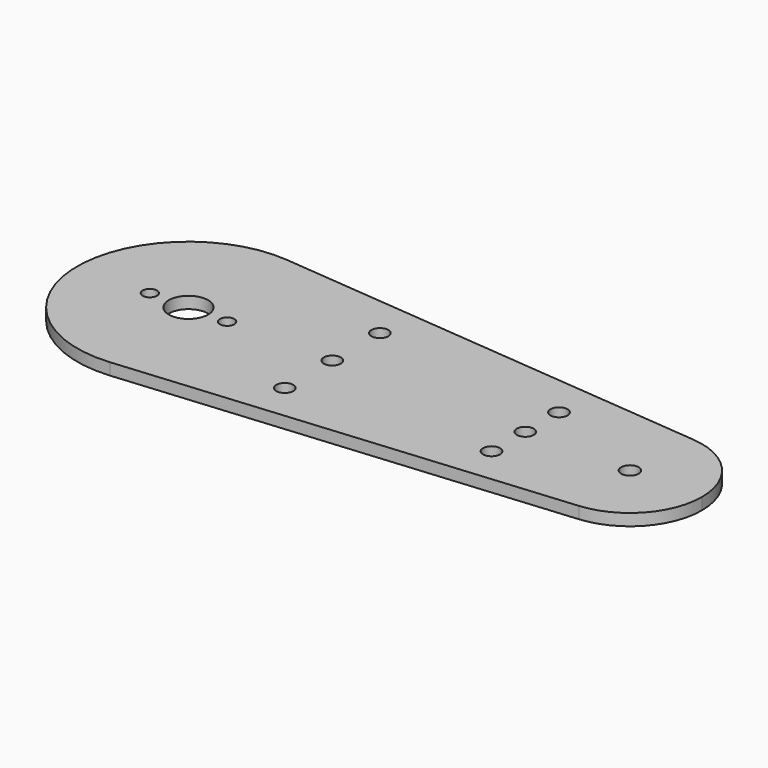
from build123d import *

# Parameters (mm, degrees)
F0_R     = 1.397
F0_R_2   = 3.81
F0_R_3   = 1.651
F0_R_4   = 1.7145
F1_DEPTH = 2.286


with BuildPart() as f1:
    # F0 (on Top) → F1 (new body)
    with BuildSketch(Plane.XY):
        with BuildLine():
            ThreePointArc((1.919111, -21.504537), (15.930501, -14.572139), (21.59, 0))
            ThreePointArc((21.59, 0), (15.930501, 14.572139), (1.919111, 21.504537))
            ThreePointArc((1.919111, 21.504537), (-21.59, 0), (1.919111, -21.504537))
        make_face()
        with Locations((-7.493, 0)):
            Circle(F0_R, mode=Mode.SUBTRACT)
        Circle(F0_R_2, mode=Mode.SUBTRACT)
        with Locations((7.493, 0)):
            Circle(F0_R, mode=Mode.SUBTRACT)
        with BuildLine():
            ThreePointArc((1.919111, 21.504537), (15.930501, 14.572139), (21.59, 0))
            ThreePointArc((21.59, 0), (15.930501, -14.572139), (1.919111, -21.504537))
            Line((1.919111, -21.504537), (86.966778, -13.9147))
            ThreePointArc((86.966778, -13.9147), (71.755, 0), (86.966778, 13.9147))
            Line((86.966778, 13.9147), (1.919111, 21.504537))
        make_face()
        with Locations((27.94, -11.532094)):
            Circle(F0_R_3, mode=Mode.SUBTRACT)
        with Locations((65.405, -8.188637)):
            Circle(F0_R_3, mode=Mode.SUBTRACT)
        with Locations((27.94, 0)):
            Circle(F0_R_3, mode=Mode.SUBTRACT)
        with Locations((27.94, 11.532094)):
            Circle(F0_R_3, mode=Mode.SUBTRACT)
        with Locations((65.405, 0)):
            Circle(F0_R_3, mode=Mode.SUBTRACT)
        with Locations((65.405, 8.188637)):
            Circle(F0_R_3, mode=Mode.SUBTRACT)
        with BuildLine():
            ThreePointArc((99.695, 0), (96.032971, 9.429031), (86.966778, 13.9147))
            ThreePointArc((86.966778, 13.9147), (71.755, 0), (86.966778, -13.9147))
            ThreePointArc((86.966778, -13.9147), (96.032971, -9.429031), (99.695, 0))
        make_face()
        with Locations((85.725, 0)):
            Circle(F0_R_4, mode=Mode.SUBTRACT)
    extrude(amount=F1_DEPTH)


solid = f1.part
